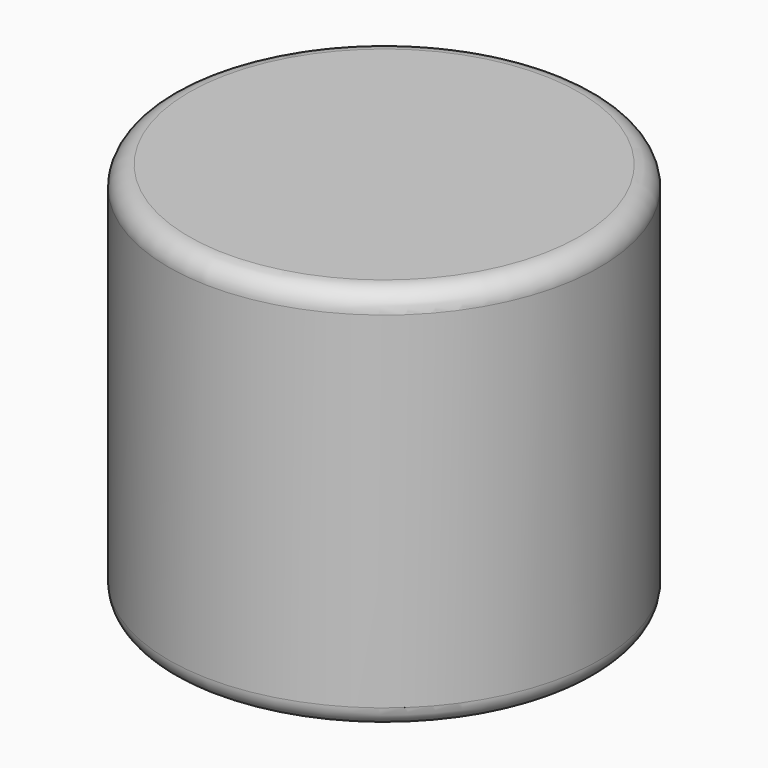
from build123d import *

# Parameters (mm, degrees)
F2_R = 1


with BuildPart() as f1:
    # F0 (on Front) → F1 (revolve)
    with BuildSketch(Plane.XZ):
        Polygon((-1.5333333333, -21.9424498901), (-1.5333333333, -5.9424498901), (6.0666666667, -5.9424498901), (6.0666666667, -2.9424498901), (-4.5333333333, -2.9424498901), (-4.5333333333, -21.9424498901), align=None)
    revolve(axis=Axis((6.0666666667, 0, -4.4424498901), (0, 0, -1)))

    # F2
    f2_edges = [f1.edges().sort_by_distance(p)[0] for p in [
        (16.666667, 0, -21.94245),
        (13.666667, 0, -21.94245),
        (16.666667, 0, -2.94245),
        (-4.533333, 0, -12.44245),
    ]]
    fillet(f2_edges, radius=F2_R)


solid = f1.part
